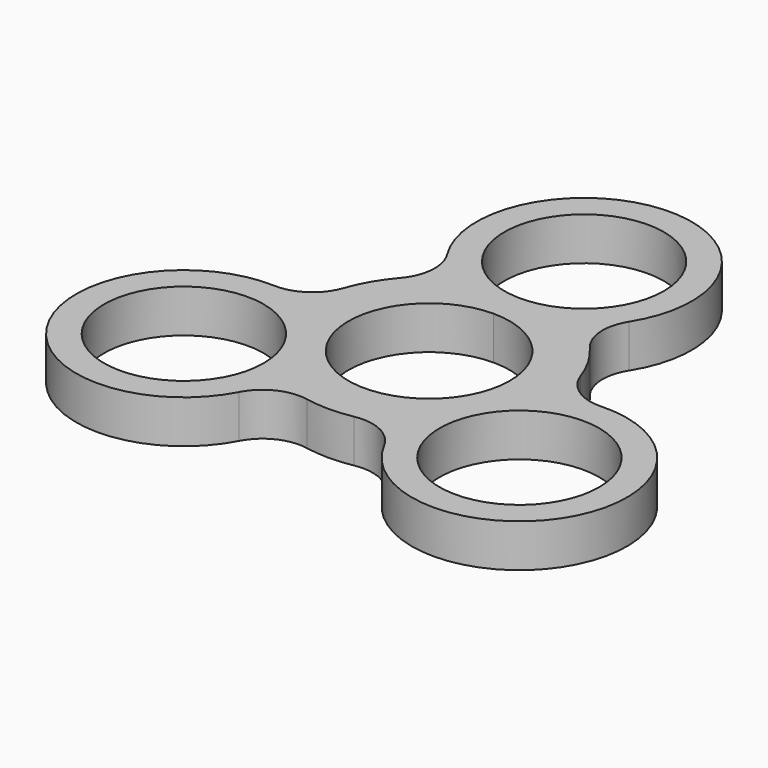
from build123d import *

# Parameters (mm, degrees)
F0_R     = 11.125
F1_DEPTH = 6


with BuildPart() as f1:
    # F0 (on Top) → F1 (new body)
    with BuildSketch(Plane.XY):
        with BuildLine():
            ThreePointArc((-12.679378, 18.985428), (-11.714568, 15.120333), (-13.24202, 11.441106))
            ThreePointArc((-13.24202, 11.441106), (-15.155445, 8.75), (-16.529298, 5.747373))
            ThreePointArc((-16.529298, 5.747373), (-18.951876, 2.584947), (-22.781552, 1.48795))
            ThreePointArc((-22.781552, 1.48795), (-36.373067, -21), (-10.102174, -20.473378))
            ThreePointArc((-10.102174, -20.473378), (-7.237308, -17.705279), (-3.287278, -17.188479))
            ThreePointArc((-3.287278, -17.188479), (0, -17.5), (3.287278, -17.188479))
            ThreePointArc((3.287278, -17.188479), (7.237308, -17.705279), (10.102174, -20.473378))
            ThreePointArc((10.102174, -20.473378), (36.373067, -21), (22.781552, 1.48795))
            ThreePointArc((22.781552, 1.48795), (18.951876, 2.584947), (16.529298, 5.747373))
            ThreePointArc((16.529298, 5.747373), (15.155445, 8.75), (13.24202, 11.441106))
            ThreePointArc((13.24202, 11.441106), (11.714568, 15.120333), (12.679378, 18.985428))
            ThreePointArc((12.679378, 18.985428), (0, 42), (-12.679378, 18.985428))
        make_face()
        with Locations((-23.382686, -13.5)):
            Circle(F0_R, mode=Mode.SUBTRACT)
        with BuildLine():
            ThreePointArc((0, 11.25), (7.954951, 7.954951), (11.25, 0))
            ThreePointArc((11.25, 0), (2.911714, -10.866666), (-9.742786, -5.625))
            ThreePointArc((-9.742786, -5.625), (-9.742786, 5.625), (0, 11.25))
        make_face(mode=Mode.SUBTRACT)
        with Locations((23.382686, -13.5)):
            Circle(F0_R, mode=Mode.SUBTRACT)
        with Locations((0, 27)):
            Circle(F0_R, mode=Mode.SUBTRACT)
    extrude(amount=F1_DEPTH)


solid = f1.part
